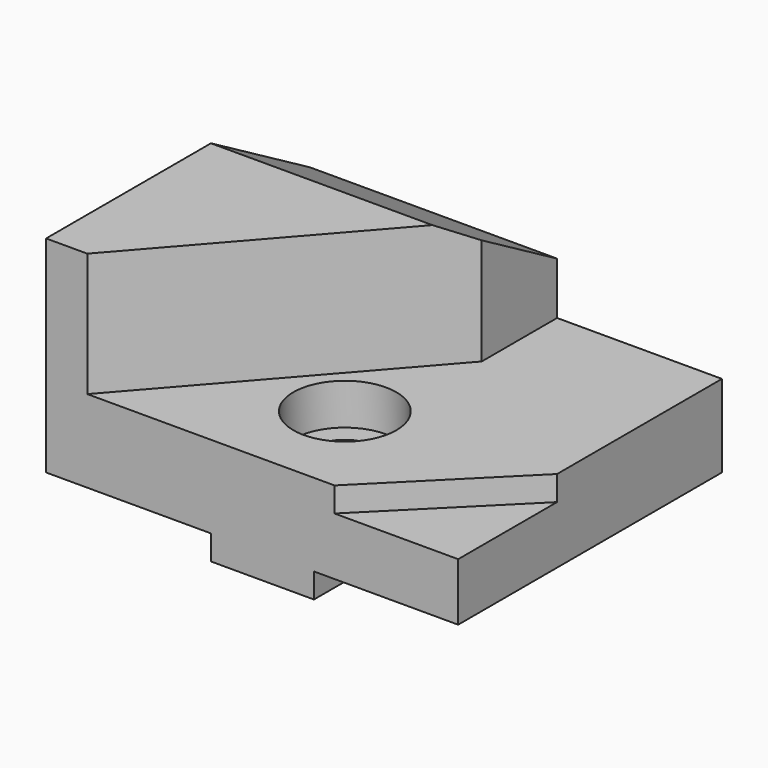
from build123d import *

# Parameters (mm, degrees)
SKETCH_W        = 100
SKETCH_H        = 80
PAD_DEPTH       = 56
SKETCH001_W     = 40
SKETCH001_H     = 99.175636
SKETCH001_W_2   = 35
SKETCH001_H_2   = 102.941795
POCKET_DEPTH    = 6
POCKET001_DEPTH = 30
SKETCH003_R     = 7.5
POCKET002_DEPTH = 26.001
SKETCH004_R     = 12.5
POCKET003_DEPTH = 10
POCKET004_DEPTH = 6
POCKET005_DEPTH = 100.001
SKETCH007_W     = 20
SKETCH007_H     = 31.79351
POCKET006_DEPTH = 80.001


with BuildPart() as part:
    # Sketch → Pad (new body)
    with BuildSketch(Plane.XY):
        Rectangle(SKETCH_W, SKETCH_H)
    extrude(amount=PAD_DEPTH)

    # Sketch001 → Pocket (cut)
    with BuildSketch(Plane(origin=(0, 0, 0), x_dir=(1, 0, 0), z_dir=(0, 0, -1))):
        with Locations((-30, -1.79467)):
            Rectangle(SKETCH001_W, SKETCH001_H)
        with Locations((32.5, -0.915902)):
            Rectangle(SKETCH001_W_2, SKETCH001_H_2)
    extrude(amount=-POCKET_DEPTH, mode=Mode.SUBTRACT)

    # Sketch002 → Pocket001 (cut)
    with BuildSketch(Plane.XY.offset(56)):
        Polygon((-40, -40), (30, 40), (50, 40), (50, -40), align=None)
    extrude(amount=-POCKET001_DEPTH, mode=Mode.SUBTRACT)

    # Sketch003 → Pocket002 (cut, through all)
    with BuildSketch(Plane.XY.offset(26)):
        with Locations((2.5, -15)):
            Circle(SKETCH003_R)
    extrude(amount=-POCKET002_DEPTH, mode=Mode.SUBTRACT)

    # Sketch004 → Pocket003 (cut)
    with BuildSketch(Plane.XY.offset(26)):
        with Locations((2.5, -15)):
            Circle(SKETCH004_R)
    extrude(amount=-POCKET003_DEPTH, mode=Mode.SUBTRACT)

    # Sketch005 → Pocket004 (cut)
    with BuildSketch(Plane.XY.offset(26)):
        Polygon((20, -40), (50, -10), (50, -40), align=None)
    extrude(amount=-POCKET004_DEPTH, mode=Mode.SUBTRACT)

    # Sketch006 → Pocket005 (cut, through all)
    with BuildSketch(Plane(origin=(-50, 0, 0), x_dir=(0, -1, 0), z_dir=(-1, 0, 0))):
        Polygon((-40, 38.679492), (-40, 56), (-10, 56), align=None)
    extrude(amount=-POCKET005_DEPTH, mode=Mode.SUBTRACT)

    # Sketch007 → Pocket006 (cut, through all)
    with BuildSketch(Plane(origin=(0, 40, 0), x_dir=(-1, 0, 0), z_dir=(0, 1, 0))):
        with Locations((-20, 41.896755)):
            Rectangle(SKETCH007_W, SKETCH007_H)
    extrude(amount=-POCKET006_DEPTH, mode=Mode.SUBTRACT)


solid = part.part
